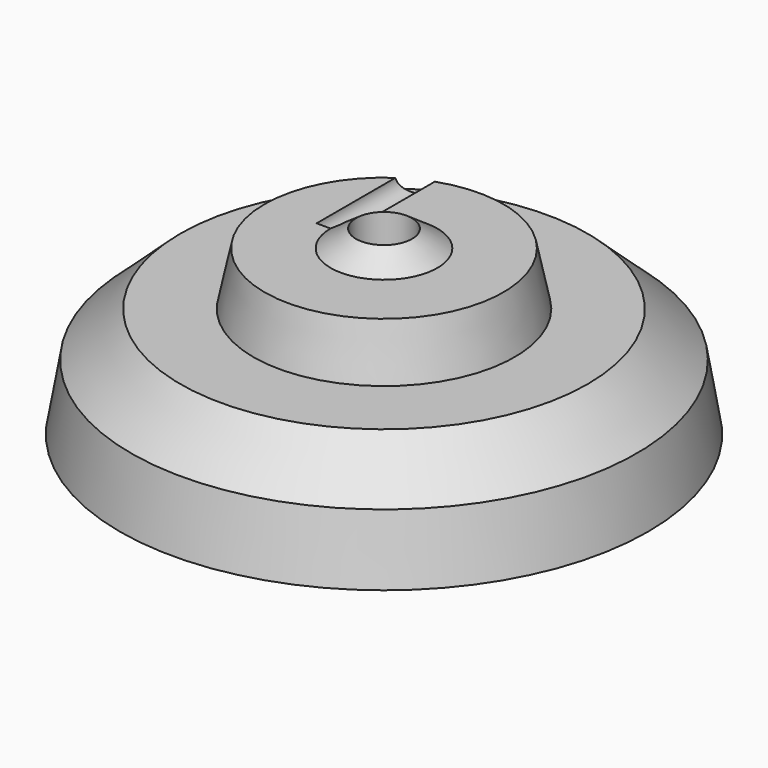
from build123d import *

# Parameters (mm, degrees)
F3_D     = 5
F3_DEPTH = 47.0757239888
F4_D     = 10


with BuildPart() as f1:
    # F0 (on Front) → F1 (revolve)
    with BuildSketch(Plane.XZ):
        Polygon((0, 0), (0, 35.6816388667), (-9.515103884, 29.1713047773), (-21.2837848812, 29.1713047773), (-23.2869647443, 19.6562018245), (-36.3076329231, 19.6562018245), (-45.071542263, 11.6434814408), (-47.0747239888, 0), align=None)
    revolve(axis=Axis((0, 0, 17.8408194333), (0, 0, -1)))

    # F3 (through all, one way)
    with BuildSketch(Plane.XZ):
        with Locations((0, 35.6816388667), (-9.515103884, 29.1713047773)):
            Circle(F3_D / 2)
    extrude(amount=-F3_DEPTH, mode=Mode.SUBTRACT)

    # F4 (through all)
    with Locations(Plane(origin=(0, 0, 0), x_dir=(1, 0, 0), z_dir=(0, 0, -1))):
        with Locations((0, 0)):
            Hole(F4_D / 2)


solid = f1.part
